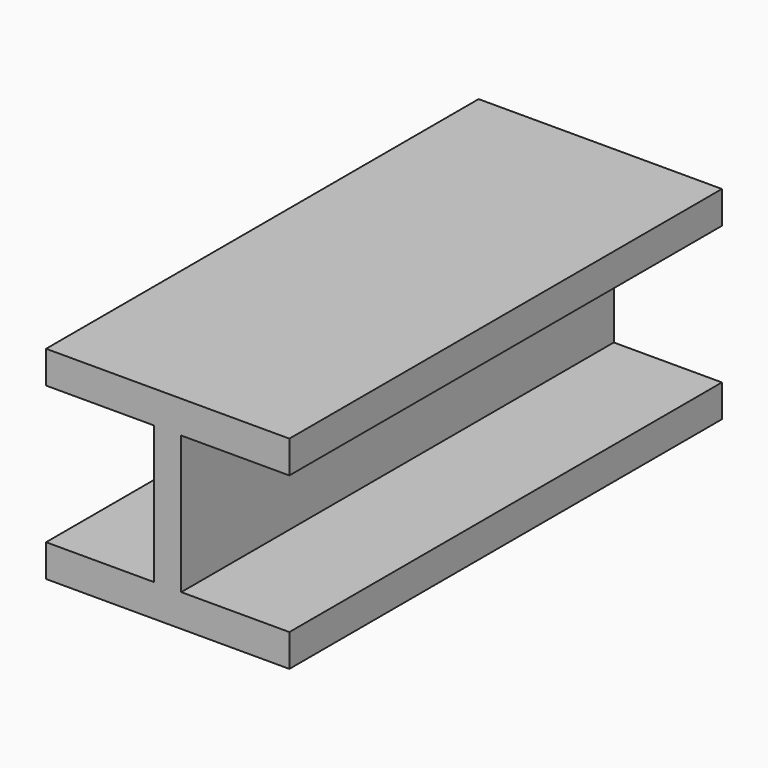
from build123d import *

# Parameters (mm, degrees)
PAD_DEPTH = 200


with BuildPart() as part:
    # Sketch → Pad (new body)
    with BuildSketch(Plane.XZ):
        Polygon((-38.415913, 63), (-38.415913, 51), (1.584087, 51), (1.584087, 0), (-38.415913, 0), (-38.415913, -12), (51.584087, -12), (51.584087, 0), (11.584087, 0), (11.584087, 51), (51.584087, 51), (51.584087, 63), align=None)
    extrude(amount=PAD_DEPTH)


solid = part.part
